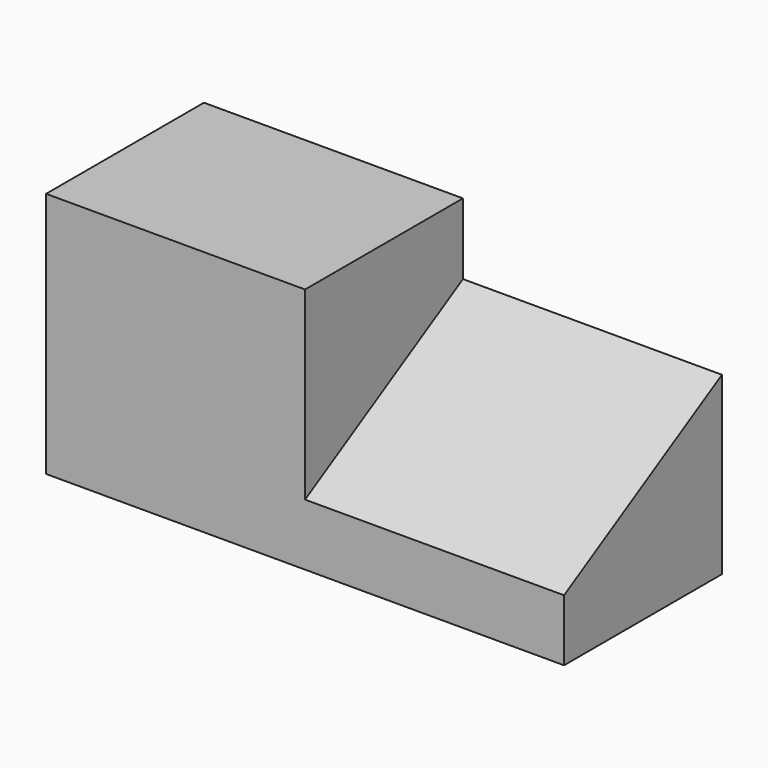
from build123d import *

# Parameters (mm, degrees)
F0_W     = 133.35
F0_H     = 63.5
F1_DEPTH = 50.8
F3_DEPTH = 66.675


with BuildPart() as f1:
    # F0 (on Front) → F1 (new body)
    with BuildSketch(Plane.XZ):
        with Locations((-3.265716, 6.156705)):
            Rectangle(F0_W, F0_H)
    extrude(amount=F1_DEPTH)

    # F2 (on face) → F3 (cut)
    with BuildSketch(Plane.YZ.offset(63.409284)):
        Polygon((-50.8, 37.906705), (-50.8, -9.718295), (0, 19.611099), (0, 37.906705), align=None)
    extrude(amount=-F3_DEPTH, mode=Mode.SUBTRACT)


solid = f1.part
